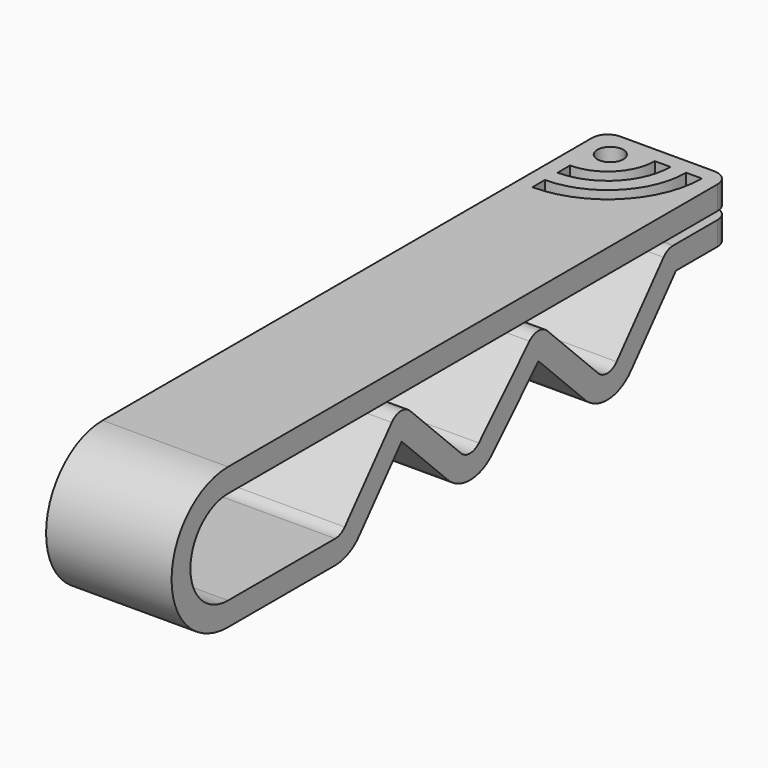
from build123d import *

# Parameters (mm, degrees)
F1_DEPTH = 8
F2_R     = 0.828427
F3_DEPTH = 1.5
F4_R     = 1


with BuildPart() as f1:
    # F0 (on Right) → F1 (new body)
    with BuildSketch(Plane.YZ):
        with BuildLine():
            ThreePointArc((0, -3), (-3, 0), (0, 3))
            Line((0, 3), (40, 3))
            Line((40, 3), (40, 4.5))
            Line((40, 4.5), (0, 4.5))
            ThreePointArc((0, 4.5), (-4.5, 0), (0, -4.5))
            Line((0, -4.5), (8.541805, -4.5))
            ThreePointArc((8.541805, -4.5), (9.583182, -4.272781), (10.435262, -3.632429))
            Line((10.435262, -3.632429), (13.826929, 0.301572))
            Line((13.826929, 0.301572), (17.512715, -3.358312))
            ThreePointArc((17.512715, -3.358312), (19.285663, -4.084296), (21.051901, -3.342136))
            Line((21.051901, -3.342136), (24.728998, 0.376483))
            Line((24.728998, 0.376483), (28.439931, -3.30837))
            ThreePointArc((28.439931, -3.30837), (30.298208, -4.032508), (32.09491, -3.16681))
            Line((32.09491, -3.16681), (35.687292, 1))
            Line((35.687292, 1), (40, 1))
            Line((40, 1), (40, 2.5))
            Line((40, 2.5), (35.458195, 2.5))
            ThreePointArc((35.458195, 2.5), (35.041644, 2.409113), (34.700812, 2.152971))
            Line((34.700812, 2.152971), (30.958836, -2.187352))
            ThreePointArc((30.958836, -2.187352), (30.240155, -2.533632), (29.496844, -2.243977))
            Line((29.496844, -2.243977), (25.430372, 1.793918))
            ThreePointArc((25.430372, 1.793918), (24.721192, 2.084312), (24.014697, 1.787448))
            Line((24.014697, 1.787448), (19.985303, -2.287448))
            ThreePointArc((19.985303, -2.287448), (19.278808, -2.584312), (18.569628, -2.293918))
            Line((18.569628, -2.293918), (14.503156, 1.743977))
            ThreePointArc((14.503156, 1.743977), (13.759845, 2.033632), (13.041164, 1.687352))
            Line((13.041164, 1.687352), (9.299188, -2.652971))
            ThreePointArc((9.299188, -2.652971), (8.958356, -2.909113), (8.541805, -3))
            Line((8.541805, -3), (0, -3))
        make_face()
    extrude(amount=F1_DEPTH)

    # F2 (on face) → F3 (cut, through all)
    with BuildSketch(Plane.XY.offset(4.5)):
        with BuildLine():
            ThreePointArc((4, 39), (3.12132, 36.87868), (1, 36))
            Line((1, 36), (1, 35))
            ThreePointArc((1, 35), (3.828427, 36.171573), (5, 39))
            Line((5, 39), (4, 39))
        make_face()
        with BuildLine():
            ThreePointArc((6, 39), (4.535534, 35.464466), (1, 34))
            Line((1, 34), (1, 33))
            ThreePointArc((1, 33), (5.242641, 34.757359), (7, 39))
            Line((7, 39), (6, 39))
        make_face()
        with Locations((1.828427, 38.171573)):
            Circle(F2_R)
    extrude(amount=-F3_DEPTH, mode=Mode.SUBTRACT)

    # F4
    f4_edges = [f1.edges().sort_by_distance(p)[0] for p in [
        (8, 40, 3.75),
        (8, 40, 1.75),
        (0, 40, 1.75),
        (0, 40, 3.75),
    ]]
    fillet(f4_edges, radius=F4_R)


solid = f1.part
